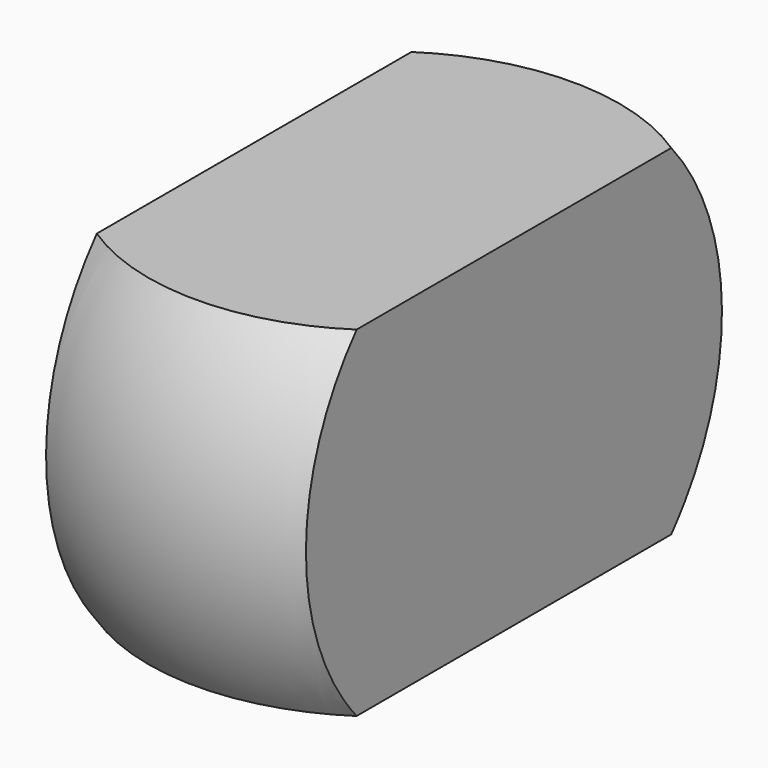
from build123d import *

# Parameters (mm, degrees)
F0_W     = 56.777108
F0_H     = 74.33106
F1_DEPTH = 63.5


with BuildPart() as f1:
    # F0 (on Front) → F1 (new body, symmetric)
    with BuildSketch(Plane.XZ):
        Rectangle(F0_W, F0_H)
    extrude(amount=F1_DEPTH, both=True)

    # F2 (on Right) → F3 (revolve, cut)
    with BuildSketch(Plane.YZ):
        with BuildLine():
            ThreePointArc((51.437588, 37.234722), (63.5, 0), (51.437588, -37.234722))
            Line((51.437588, -37.234722), (80.734707, -55.344366))
            Line((80.734707, -55.344366), (80.734707, 43.934762))
            Line((80.734707, 43.934762), (51.437588, 37.234722))
        make_face()
    revolve(axis=Axis((0, 0, -32.284576), (0, 0, -1)), mode=Mode.SUBTRACT)


solid = f1.part
